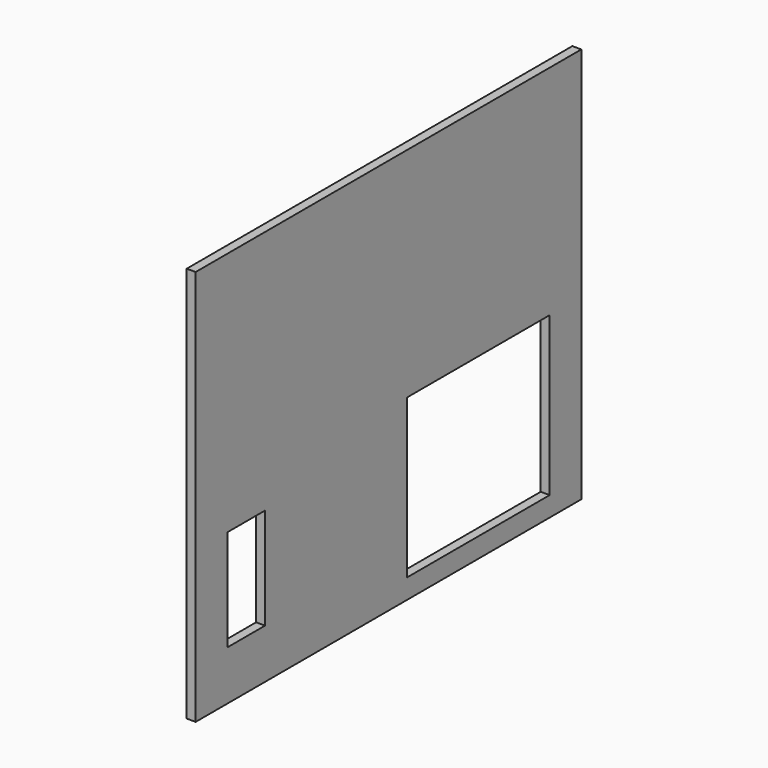
from build123d import *

# Parameters (mm, degrees)
F0_W     = 7419.6575
F0_H     = 6096
F1_DEPTH = 138.27125
F4_W     = 2743.2
F4_H     = 2438.4
F4_W_2   = 725.64752
F4_H_2   = 1559.6997
F5_DEPTH = 138.27225


with BuildPart() as f1:
    # F0 (on Right) → F1 (new body)
    with BuildSketch(Plane.YZ):
        with Locations((3709.82875, 3048)):
            Rectangle(F0_W, F0_H)
    extrude(amount=F1_DEPTH)

    # F4 (on face) → F5 (cut, through all)
    with BuildSketch(Plane(origin=(0, 0, 0), x_dir=(0, -1, 0), z_dir=(-1, 0, 0))):
        with Locations((-5438.4575, 1524)):
            Rectangle(F4_W, F4_H)
        with Locations((-972.42376, 1541.84985)):
            Rectangle(F4_W_2, F4_H_2)
    extrude(amount=-F5_DEPTH, mode=Mode.SUBTRACT)


solid = f1.part
